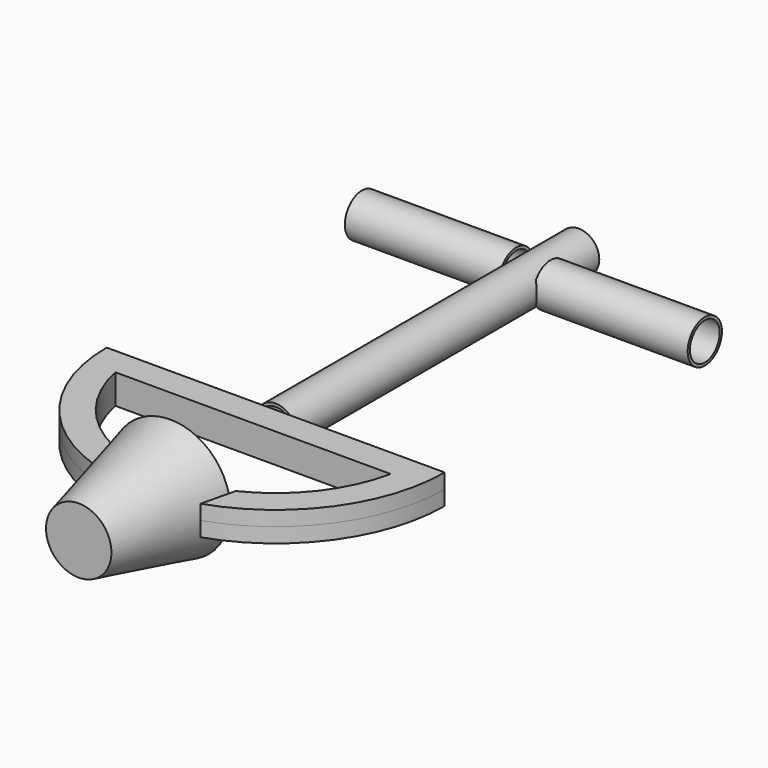
from build123d import *

# Parameters (mm, degrees)
F0_W      = 4.5747002587
F0_H      = 84.6535563469
F2_DEPTH  = 3.302
F3_W      = 34.4697830733
F3_H      = 4.7874748707
F7_DEPTH  = 25.4
F8_T      = -1.27
F10_DEPTH = 25.4
F11_T     = -0.635
F11_2_T   = -0.635
F11_3_T   = -0.635


with BuildPart() as f1:
    # F0 (on Top) → F1 (revolve)
    with BuildSketch(Plane.XY):
        with Locations((2.2873501293, 42.3267781734)):
            Rectangle(F0_W, F0_H)
    revolve(axis=Axis((0, 42.3267781734, 0), (0, 1, 0)))

    # F11
    f11_openings = [f1.faces().sort_by_distance(p)[0] for p in [
        (0, 84.653556, 0),
        (0, 0, 0),
    ]]
    offset(amount=F11_T, openings=f11_openings)


with BuildPart() as f1b:
    # F0 (on Top) → F1, piece 2 (revolve)
    with BuildSketch(Plane.XY):
        with BuildLine():
            ThreePointArc((11.8736668494, -35.8397841513), (6.0136042551, -37.2734577994), (0, -37.7554511622))
            Line((0, -37.7554511622), (0, -55.0146475434))
            Line((0, -55.0146475434), (7.3082223535, -55.0146475434))
            Line((7.3082223535, -55.0146475434), (11.8736668494, -35.8397841513))
        make_face()
        with BuildLine():
            Line((13.3984060958, -29.4358804822), (0, -29.4358804822))
            Line((0, -29.4358804822), (0, -37.7554511622))
            ThreePointArc((0, -37.7554511622), (6.0136042551, -37.2734577994), (11.8736668494, -35.8397841513))
            Line((11.8736668494, -35.8397841513), (13.3984060958, -29.4358804822))
        make_face()
    revolve(axis=Axis((0, 42.3267781734, 0), (0, 1, 0)))

    # F8
    f8_openings = [f1b.faces().sort_by_distance(p)[0] for p in [
        (0, -29.43588, 0),
    ]]
    offset(amount=F8_T, openings=f8_openings)


with BuildPart() as f2:
    # F0 (on Top) → F2 (new body, symmetric)
    with BuildSketch(Plane.XY):
        with BuildLine():
            Line((4.5747002587, 0), (0, 0))
            Line((0, 0), (0, -29.4358804822))
            Line((0, -29.4358804822), (13.3984060958, -29.4358804822))
            Line((13.3984060958, -29.4358804822), (11.8736668494, -35.8397841513))
            ThreePointArc((11.8736668494, -35.8397841513), (30.6085751164, -22.1040544201), (37.7554511622, 0))
            Line((37.7554511622, 0), (4.5747002587, 0))
        make_face()
        with BuildLine():
            Line((0, -29.4358804822), (0, 0))
            Line((0, 0), (-37.7554511622, 0))
            ThreePointArc((-37.7554511622, 0), (-26.6971355436, -26.6971355436), (0, -37.7554511622))
            Line((0, -37.7554511622), (0, -29.4358804822))
        make_face()
        with BuildLine():
            Line((13.3984060958, -29.4358804822), (0, -29.4358804822))
            Line((0, -29.4358804822), (0, -37.7554511622))
            ThreePointArc((0, -37.7554511622), (6.0136042551, -37.2734577994), (11.8736668494, -35.8397841513))
            Line((11.8736668494, -35.8397841513), (13.3984060958, -29.4358804822))
        make_face()
    extrude(amount=F2_DEPTH, both=True)

    # F6 (on face) → F7 (cut)
    with BuildSketch(Plane.XY.offset(3.302)):
        with BuildLine():
            ThreePointArc((-30.7567857309, -6.3499999233), (0, -31.405451239), (30.7567857309, -6.3499999233))
            Line((30.7567857309, -6.3499999233), (0, -6.3499999233))
            Line((0, -6.3499999233), (-30.7567857309, -6.3499999233))
        make_face()
    extrude(amount=-F7_DEPTH, mode=Mode.SUBTRACT)

    # F9 (on face) → F10 (cut)
    with BuildSketch(Plane.XY.offset(3.302)):
        Polygon((7.3082223535, -55.0146475434), (13.3984060958, -29.4358804822), (16.3305439812, -17.1209036056), (-16.3305439812, -17.1209036056), (-13.3984060958, -29.4358804822), (-7.3082223535, -55.0146475434), align=None)
    extrude(amount=-F10_DEPTH, mode=Mode.SUBTRACT)


with BuildPart() as f4:
    # F3 (on Top) → F4 (revolve)
    with BuildSketch(Plane.XY):
        with Locations((21.0648664506, 69.5778951049)):
            Rectangle(F3_W, F3_H)
    revolve(axis=Axis((21.0648664506, 71.9716325402, 0), (1, 0, 0)))


with BuildPart() as f5_1:
    # F5: instance of F4
    add(f4.part.mirror(Plane.YZ))

    # F11#3
    f11_3_openings = [f5_1.faces().sort_by_distance(p)[0] for p in [
        (-3.829975, 71.971633, 0),
        (-38.299758, 71.971633, 0),
    ]]
    offset(amount=F11_3_T, openings=f11_3_openings)


with BuildPart() as f4_1:
    add(f4.part)

    # F11#2
    f11_2_openings = [f4_1.faces().sort_by_distance(p)[0] for p in [
        (38.299758, 71.971633, 0),
        (3.829975, 71.971633, 0),
    ]]
    offset(amount=F11_2_T, openings=f11_2_openings)


solid = Compound([f1.part, f1b.part, f2.part, f5_1.part, f4_1.part])
